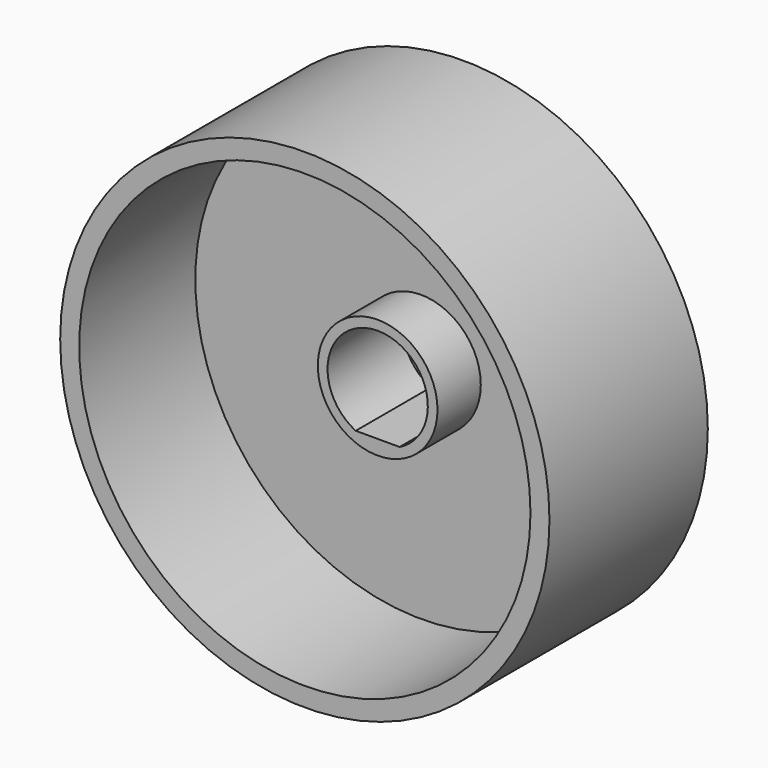
from build123d import *

# Parameters (mm, degrees)
F0_R      = 18.54
F1_DEPTH  = 15
F2_R      = 17.1
F3_DEPTH  = 11
F5_R      = 4.535
F6_DEPTH  = 6
F9_DEPTH  = 9.01
F7_R      = 4.535
F10_DEPTH = 1.5
F11_DEPTH = 3.4


with BuildPart() as f1:
    # F0 (on Front) → F1 (new body)
    with BuildSketch(Plane.XZ):
        Circle(F0_R)
        with BuildLine():
            ThreePointArc((-2.5, -3.7836787654), (-2.1481067245, 3.9939782799), (4.535, 0))
            ThreePointArc((4.535, 0), (3.9939782799, -2.1481067245), (2.5, -3.7836787654))
            ThreePointArc((2.5, -3.7836787654), (0, -4.535), (-2.5, -3.7836787654))
        make_face(mode=Mode.SUBTRACT)
        with BuildLine():
            ThreePointArc((2.5, -3.7836787654), (3.9939782799, -2.1481067245), (4.535, 0))
            ThreePointArc((4.535, 0), (-2.1481067245, 3.9939782799), (-2.5, -3.7836787654))
            Line((-2.5, -3.7836787654), (2.5, -3.7836787654))
        make_face()
        with BuildLine():
            Line((2.5, -3.7836787654), (-2.5, -3.7836787654))
            ThreePointArc((-2.5, -3.7836787654), (0, -4.535), (2.5, -3.7836787654))
        make_face()
    extrude(amount=F1_DEPTH)

    # F2 (on face) → F3 (cut)
    with BuildSketch(Plane.XZ.offset(15)):
        Circle(F2_R)
    extrude(amount=-F3_DEPTH, mode=Mode.SUBTRACT)

    # F5 (on face) → F6 (join)
    with BuildSketch(Plane.XZ.offset(4)):
        Circle(F5_R)
    extrude(amount=F6_DEPTH)

    # F8 (on face) → F9 (cut)
    with BuildSketch(Plane.XZ.offset(10)):
        with BuildLine():
            ThreePointArc((1.662322006, -3.4171165547), (3.221554254, -2.0153382318), (3.8, 0))
            ThreePointArc((3.8, 0), (-2.0153382318, 3.221554254), (-1.662322006, -3.4171165547))
            Line((-1.662322006, -3.4171165547), (1.662322006, -3.4171165547))
        make_face()
    extrude(amount=-F9_DEPTH, mode=Mode.SUBTRACT)

    # F7 (on face) → F10 (join)
    with BuildSketch(Plane.XZ.offset(10)):
        Circle(F7_R)
    extrude(amount=F10_DEPTH)

    # F11 (cut): a face of the model
    f11_faces = [f1.faces().sort_by_distance(p)[0] for p in [
        (0, -11.5, 0),
    ]]
    extrude(f11_faces, amount=-F11_DEPTH, mode=Mode.SUBTRACT)


solid = f1.part
